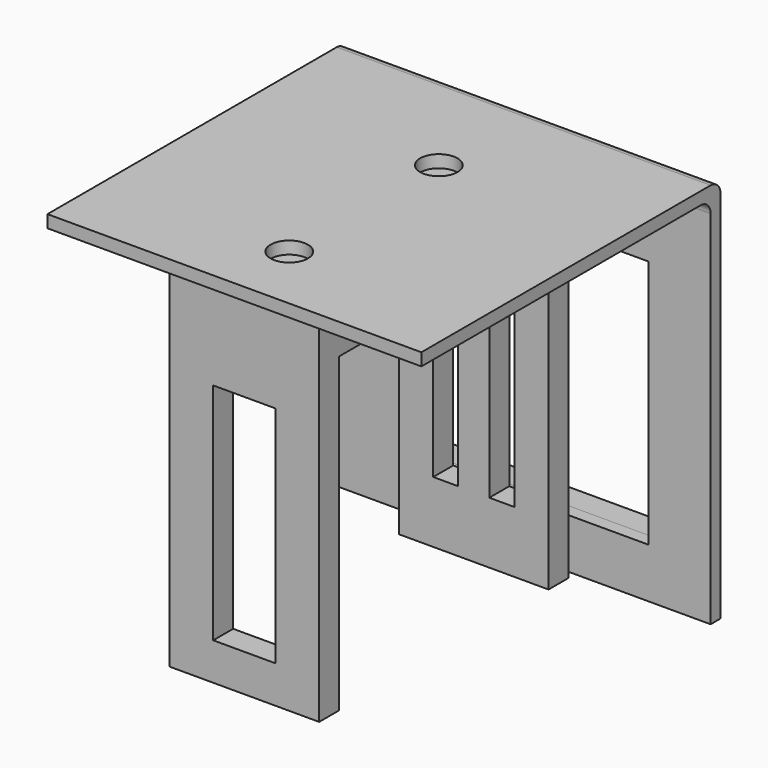
from build123d import *

# Parameters (mm, degrees)
F0_W      = 1
F0_H      = 30
F1_DEPTH  = 30
F2_R      = 1
F3_W      = 20
F3_H      = 20
F4_DEPTH  = 1
F6_D      = 3
F6_DEPTH  = 1
F6_TIP    = 0.9012909285
F7_W      = 12
F7_H      = 25
F7_R      = 1.3
F8_DEPTH  = 3
F9_W      = 12
F9_H      = 2
F10_DEPTH = 25
F11_W     = 2
F11_H     = 15
F12_DEPTH = 3
F13_W     = 5
F13_H     = 18
F14_DEPTH = 2
F15_W     = 24
F15_H     = 24
F15_W_2   = 20
F15_H_2   = 20
F16_DEPTH = 2
F17_W     = 24
F17_H     = 24
F17_W_2   = 22
F17_H_2   = 22
F18_DEPTH = 1
F19_R     = 0.5


with BuildPart() as f1:
    # F0 (on Right) → F1 (new body)
    with BuildSketch(Plane.YZ):
        Polygon((27.8417383954, 1.4394566469), (-2.1582616046, 1.4394566469), (-2.1582616046, 0.4394566469), (26.8417383954, 0.4394566469), (27.8417383954, 0.4394566469), align=None)
        with Locations((27.3417383954, -14.5605433531)):
            Rectangle(F0_W, F0_H)
    extrude(amount=F1_DEPTH)

    # F2
    f2_edges = [f1.edges().sort_by_distance(p)[0] for p in [
        (15, 27.841738, 1.439457),
        (15, 26.841738, 0.439457),
    ]]
    fillet(f2_edges, radius=F2_R)

    # F3 (on face) → F4 (cut)
    with BuildSketch(Plane(origin=(0, 27.8417383954, 0), x_dir=(-1, 0, 0), z_dir=(0, 1, 0))):
        with Locations((-15, -15.5605433531)):
            Rectangle(F3_W, F3_H)
    extrude(amount=-F4_DEPTH, mode=Mode.SUBTRACT)

    # F6
    with Locations(Plane.XY.offset(1.4394566469)):
        with Locations((15, 3.3417383954), (15, 18.3417383954)):
            Hole(F6_D / 2, depth=F6_DEPTH)
            with Locations((0, 0, -(F6_DEPTH + F6_TIP / 2))):  # 118° drill point
                Cone(0, F6_D / 2, F6_TIP, mode=Mode.SUBTRACT)


with BuildPart() as f8:
    # F7 (on Top) → F8 (new body)
    with BuildSketch(Plane.XY):
        with Locations((15, 11.3417383954)):
            Rectangle(F7_W, F7_H)
        with Locations((15, 3.3417383954)):
            Circle(F7_R, mode=Mode.SUBTRACT)
        with Locations((15, 18.3417383954)):
            Circle(F7_R, mode=Mode.SUBTRACT)
    extrude(amount=-F8_DEPTH)

    # F9 (on face) → F10 (join)
    with BuildSketch(Plane(origin=(0, 0, -3), x_dir=(1, 0, 0), z_dir=(0, 0, -1))):
        with Locations((15, -22.8417383954)):
            Rectangle(F9_W, F9_H)
        with Locations((15, 0.1582616046)):
            Rectangle(F9_W, F9_H)
    extrude(amount=F10_DEPTH)

    # F11 (on face) → F12 (cut)
    with BuildSketch(Plane(origin=(0, 23.8417383954, 0), x_dir=(-1, 0, 0), z_dir=(0, 1, 0))):
        with Locations((-17.25, -15.5605433531)):
            Rectangle(F11_W, F11_H)
        with Locations((-12.75, -15.5605433531)):
            Rectangle(F11_W, F11_H)
    extrude(amount=-F12_DEPTH, mode=Mode.SUBTRACT)

    # F13 (on face) → F14 (cut)
    with BuildSketch(Plane.XZ.offset(1.1582616046)):
        with Locations((15, -16)):
            Rectangle(F13_W, F13_H)
    extrude(amount=-F14_DEPTH, mode=Mode.SUBTRACT)


with BuildPart() as f16:
    # F15 (on face) → F16 (new body)
    with BuildSketch(Plane(origin=(0, 27.8417383954, 0), x_dir=(-1, 0, 0), z_dir=(0, 1, 0))):
        with Locations((-15, -15.5605433531)):
            Rectangle(F15_W, F15_H)
        with Locations((-15, -15.5605433531)):
            Rectangle(F15_W_2, F15_H_2, mode=Mode.SUBTRACT)
    extrude(amount=F16_DEPTH)

    # F17 (on face) → F18 (cut)
    with BuildSketch(Plane(origin=(0, 29.8417383954, 0), x_dir=(-1, 0, 0), z_dir=(0, 1, 0))):
        with Locations((-15, -15.5605433531)):
            Rectangle(F17_W, F17_H)
        with Locations((-15, -15.5605433531)):
            Rectangle(F17_W_2, F17_H_2, mode=Mode.SUBTRACT)
    extrude(amount=-F18_DEPTH, mode=Mode.SUBTRACT)

    # F19
    f19_edges = [f16.edges().sort_by_distance(p)[0] for p in [
        (26, 29.341738, -4.560543),
        (4, 29.341738, -4.560543),
        (4, 29.341738, -26.560543),
        (26, 29.341738, -26.560543),
        (27, 28.341738, -3.560543),
        (3, 28.341738, -3.560543),
        (27, 28.341738, -27.560543),
        (3, 28.341738, -27.560543),
    ]]
    fillet(f19_edges, radius=F19_R)


solid = Compound([f1.part, f8.part, f16.part])
